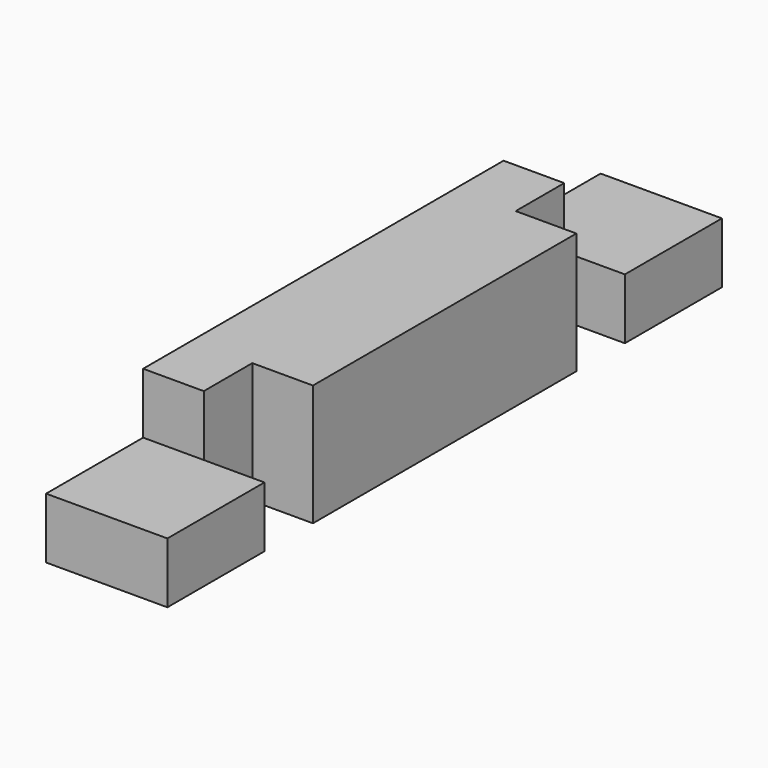
from build123d import *

# Parameters (mm, degrees)
F0_W     = 44.45
F0_H     = 44.45
F1_DEPTH = 254
F2_W     = 44.45
F2_H     = 44.45
F3_DEPTH = 22.225
F4_W     = 22.225
F4_H     = 44.45
F5_DEPTH = 22.225


with BuildPart() as f1:
    # F0 (on Front) → F1 (new body)
    with BuildSketch(Plane.XZ):
        with Locations((22.225, 22.225)):
            Rectangle(F0_W, F0_H)
    extrude(amount=F1_DEPTH)

    # F2 (on face) → F3 (cut)
    with BuildSketch(Plane.XY.offset(44.45)):
        with Locations((22.225, -231.775)):
            Rectangle(F2_W, F2_H)
        with Locations((22.225, -22.225)):
            Rectangle(F2_W, F2_H)
    extrude(amount=-F3_DEPTH, mode=Mode.SUBTRACT)

    # F4 (on face) → F5 (cut)
    with BuildSketch(Plane.YZ.offset(44.45)):
        with Locations((-198.4375, 22.225)):
            Rectangle(F4_W, F4_H)
        with Locations((-55.5625, 22.225)):
            Rectangle(F4_W, F4_H)
    extrude(amount=-F5_DEPTH, mode=Mode.SUBTRACT)


solid = f1.part
